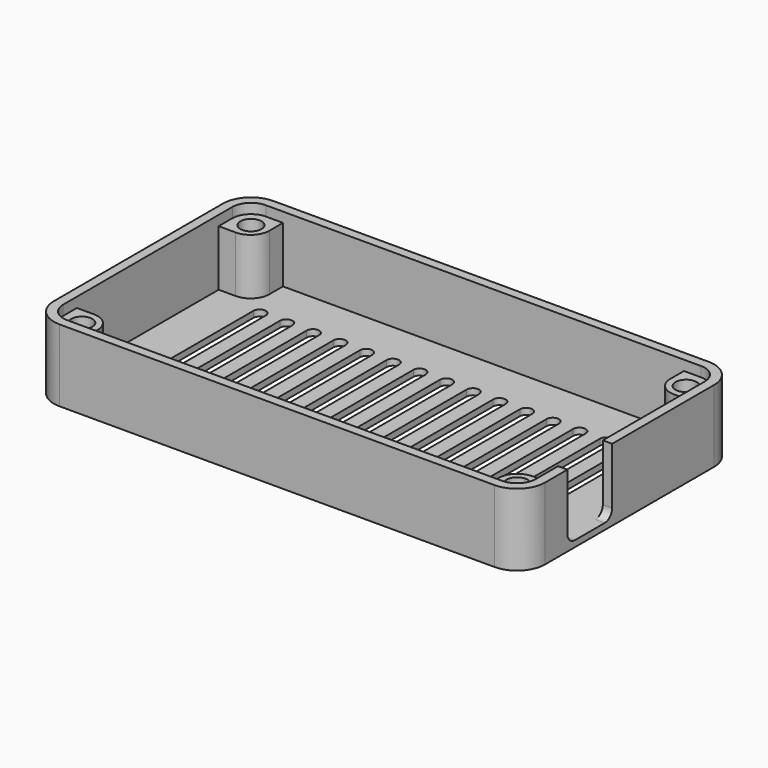
from build123d import *

# Parameters (mm, degrees)
PAD_DEPTH           = 11.6
POCKET_DEPTH        = 10.6
PAD001_DEPTH        = 9
SKETCH003_R         = 1.7
POCKET001_DEPTH     = 6
POCKET002_DEPTH     = 5
POCKET003_DEPTH     = 5
LINEARPATTERN_COUNT = 15
LINEARPATTERN_PITCH = 4.285714


with BuildPart() as part:
    # Sketch → Pad (new body)
    with BuildSketch(Plane.XY):
        with BuildLine():
            Line((-35, 21.5), (35, 21.5))
            ThreePointArc((39.5, 17), (38.181981, 20.181981), (35, 21.5))
            Line((39.5, 17), (39.5, -17))
            ThreePointArc((35, -21.5), (38.181981, -20.181981), (39.5, -17))
            Line((35, -21.5), (-35, -21.5))
            ThreePointArc((-39.5, -17), (-38.181981, -20.181981), (-35, -21.5))
            Line((-39.5, -17), (-39.5, 17))
            ThreePointArc((-35, 21.5), (-38.181981, 20.181981), (-39.5, 17))
        make_face()
    extrude(amount=PAD_DEPTH)

    # Sketch001 (on Face10 of Pad) → Pocket (cut)
    with BuildSketch(Plane.XY.offset(11.6)):
        with BuildLine():
            Line((35, 20), (-35, 20))
            ThreePointArc((-35, 20), (-37.12132, 19.12132), (-38, 17))
            Line((-38, 17), (-38, -17))
            ThreePointArc((-38, -17), (-37.12132, -19.12132), (-35, -20))
            Line((-35, -20), (35, -20))
            ThreePointArc((35, -20), (37.12132, -19.12132), (38, -17))
            Line((38, -17), (38, 17))
            ThreePointArc((38, 17), (37.12132, 19.12132), (35, 20))
        make_face()
    extrude(amount=-POCKET_DEPTH, mode=Mode.SUBTRACT)

    # Sketch002 (on Face19 of Pocket) → Pad001 (join)
    with BuildSketch(Plane.XY.offset(1)):
        with BuildLine():
            Line((-35, 20), (-32.25, 20))
            Line((-32.25, 20), (-32.25, 17.25))
            ThreePointArc((-35.25, 14.25), (-33.12868, 15.12868), (-32.25, 17.25))
            Line((-35.25, 14.25), (-38, 14.25))
            Line((-38, 14.25), (-38, 17))
            ThreePointArc((-35, 20), (-37.12132, 19.12132), (-38, 17))
        make_face()
        with BuildLine():
            Line((35, 20), (32.25, 20))
            Line((32.25, 20), (32.25, 17.25))
            ThreePointArc((32.25, 17.25), (33.12868, 15.12868), (35.25, 14.25))
            Line((35.25, 14.25), (38, 14.25))
            Line((38, 14.25), (38, 17))
            ThreePointArc((38, 17), (37.12132, 19.12132), (35, 20))
        make_face()
        with BuildLine():
            Line((-38, -14.25), (-35.25, -14.25))
            ThreePointArc((-32.25, -17.25), (-33.12868, -15.12868), (-35.25, -14.25))
            Line((-32.25, -17.25), (-32.25, -20))
            Line((-32.25, -20), (-35, -20))
            ThreePointArc((-38, -17), (-37.12132, -19.12132), (-35, -20))
            Line((-38, -17), (-38, -14.25))
        make_face()
        with BuildLine():
            Line((35.25, -14.25), (38, -14.25))
            Line((38, -14.25), (38, -17))
            ThreePointArc((35, -20), (37.12132, -19.12132), (38, -17))
            Line((35, -20), (32.25, -20))
            Line((32.25, -20), (32.25, -17.25))
            ThreePointArc((35.25, -14.25), (33.12868, -15.12868), (32.25, -17.25))
        make_face()
    extrude(amount=PAD001_DEPTH)

    # Sketch003 (on Face19 of Pad001) → Pocket001 (cut)
    with BuildSketch(Plane.XY.offset(10)):
        with Locations((-35, 17)):
            Circle(SKETCH003_R)
        with Locations((-35, -17)):
            Circle(SKETCH003_R)
        with Locations((35, -17)):
            Circle(SKETCH003_R)
        with Locations((35, 17)):
            Circle(SKETCH003_R)
    extrude(amount=-POCKET001_DEPTH, mode=Mode.SUBTRACT)

    # Sketch009 (on Face9 of Pocket001) → Pocket002 (cut)
    with BuildSketch(Plane.YZ.offset(39.5)):
        with BuildLine():
            Line((-12.5, 11.6), (-3.5, 11.6))
            Line((-3.5, 11.6), (-3.5, 2.5))
            ThreePointArc((-5, 1), (-3.93934, 1.43934), (-3.5, 2.5))
            Line((-5, 1), (-11, 1))
            ThreePointArc((-12.5, 2.5), (-12.06066, 1.43934), (-11, 1))
            Line((-12.5, 2.5), (-12.5, 11.6))
        make_face()
    extrude(amount=-POCKET002_DEPTH, mode=Mode.SUBTRACT)

    # Sketch008 → Pocket003 (cut)
    with BuildSketch(Plane(origin=(0, 0, 0), x_dir=(1, 0, 0), z_dir=(0, 0, -1))):
        with BuildLine():
            ThreePointArc((-29, 12.5), (-30, 13.5), (-31, 12.5))
            Line((-31, 12.5), (-31, -12.5))
            ThreePointArc((-31, -12.5), (-30, -13.5), (-29, -12.5))
            Line((-29, -12.5), (-29, 12.5))
        make_face()
    pocket003 = extrude(amount=-POCKET003_DEPTH, mode=Mode.SUBTRACT)

    # LinearPattern: Pocket003 ×15
    with Locations(*[(i * LINEARPATTERN_PITCH, 0, 0) for i in range(1, LINEARPATTERN_COUNT)]):
        add(pocket003, mode=Mode.SUBTRACT)


solid = part.part
